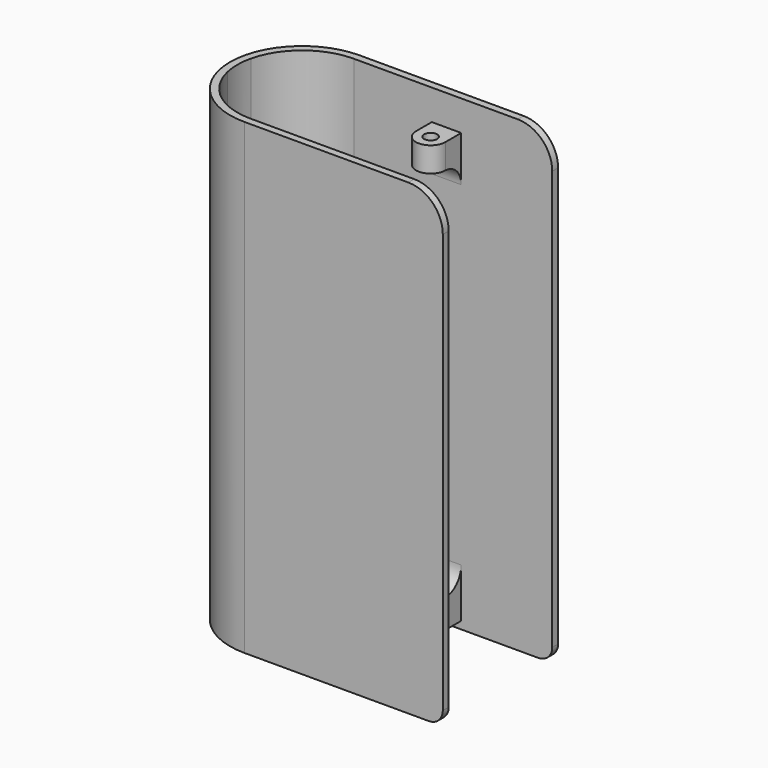
from build123d import *

# Parameters (mm, degrees)
F0_R      = 1.190625
F1_DEPTH  = 85.9282
F3_DEPTH  = 21.717
F2_R      = 11.8999
F2_W      = 5.4102
F2_H      = 23.7998
F4_DEPTH  = 5.588
F6_DEPTH  = 6.35
F7_W      = 3.6449
F7_H      = 1.397
F8_DEPTH  = 6.35
F9_R      = 11.8999
F10_DEPTH = 25.273
F12_DEPTH = 26.4922


with BuildPart() as f1:
    # F0 (on Top) → F1 (new body)
    with BuildSketch(Plane.XY):
        with BuildLine():
            Line((36.4617, 13.2461), (0, 13.2461))
            ThreePointArc((0, 13.2461), (-9.3664071343, 9.3664071343), (-13.2461, 0))
            ThreePointArc((-13.2461, 0), (-9.3664071343, -9.3664071343), (0, -13.2461))
            Line((0, -13.2461), (36.4617, -13.2461))
            Line((36.4617, -13.2461), (36.4617, -11.8999))
            Line((36.4617, -11.8999), (19.7358, -11.8999))
            Line((19.7358, -11.8999), (19.7358, -8.255))
            ThreePointArc((19.7358, -8.255), (17.0307, -5.5499), (14.3256, -8.255))
            Line((14.3256, -8.255), (14.3256, -11.8999))
            Line((14.3256, -11.8999), (0, -11.8999))
            ThreePointArc((0, -11.8999), (-7.3965262293, -9.3219643718), (-11.588358555, -2.7051))
            Line((-11.588358555, -2.7051), (-7.9883, -2.7051))
            ThreePointArc((-7.9883, -2.7051), (-6.8208667043, -2.2215332957), (-6.3373, -1.0541))
            Line((-6.3373, -1.0541), (-6.3373, 1.0541))
            ThreePointArc((-6.3373, 1.0541), (-6.8208667043, 2.2215332957), (-7.9883, 2.7051))
            Line((-7.9883, 2.7051), (-11.588358555, 2.7051))
            ThreePointArc((-11.588358555, 2.7051), (-7.3965262293, 9.3219643718), (0, 11.8999))
            Line((0, 11.8999), (14.3256, 11.8999))
            Line((14.3256, 11.8999), (14.3256, 8.255))
            ThreePointArc((14.3256, 8.255), (17.0307, 5.5499), (19.7358, 8.255))
            Line((19.7358, 8.255), (19.7358, 11.8999))
            Line((19.7358, 11.8999), (36.4617, 11.8999))
            Line((36.4617, 11.8999), (36.4617, 13.2461))
        make_face()
        with Locations((17.0307, -8.255)):
            Circle(F0_R, mode=Mode.SUBTRACT)
        with Locations((17.0307, 8.255)):
            Circle(F0_R, mode=Mode.SUBTRACT)
    extrude(amount=F1_DEPTH)

    # F2 (on face) → F3 (cut)
    with BuildSketch(Plane.XY.offset(85.9282)):
        with BuildLine():
            Line((-7.9883, 2.7051), (-11.588358555, 2.7051))
            ThreePointArc((-11.588358555, 2.7051), (-11.8999, 0), (-11.588358555, -2.7051))
            Line((-11.588358555, -2.7051), (-7.9883, -2.7051))
            ThreePointArc((-7.9883, -2.7051), (-6.8208667043, -2.2215332957), (-6.3373, -1.0541))
            Line((-6.3373, -1.0541), (-6.3373, 1.0541))
            ThreePointArc((-6.3373, 1.0541), (-6.8208667043, 2.2215332957), (-7.9883, 2.7051))
        make_face()
    extrude(amount=-F3_DEPTH, mode=Mode.SUBTRACT)

    # F2 (on face) → F4 (cut)
    with BuildSketch(Plane.XY.offset(85.9282)):
        Circle(F2_R)
        with Locations((17.0307, 0)):
            Rectangle(F2_W, F2_H)
    extrude(amount=-F4_DEPTH, mode=Mode.SUBTRACT)

    # F5 (on face) → F6 (cut)
    with BuildSketch(Plane.YZ.offset(19.7358)):
        with BuildLine():
            ThreePointArc((-8.255, 75.7646211525), (-10.8417294824, 74.593258728), (-11.8999, 71.9582))
            Line((-11.8999, 71.9582), (-11.8999, 10.414))
            ThreePointArc((-11.8999, 10.414), (-10.8417294824, 7.778941272), (-8.255, 6.6075788475))
            Line((-8.255, 6.6075788475), (-8.255, 75.7646211525))
        make_face()
        with BuildLine():
            ThreePointArc((-8.0899, 75.7682), (-8.1724693923, 75.767305183), (-8.255, 75.7646211525))
            Line((-8.255, 75.7646211525), (-8.255, 6.6075788475))
            ThreePointArc((-8.255, 6.6075788475), (-8.1724693923, 6.604894817), (-8.0899, 6.604))
            Line((-8.0899, 6.604), (-4.5909816399, 6.604))
            Line((-4.5909816399, 6.604), (-4.5909816399, 75.7682))
            Line((-4.5909816399, 75.7682), (-8.0899, 75.7682))
        make_face()
        with BuildLine():
            ThreePointArc((8.0899, 6.604), (10.7839768363, 7.7199231637), (11.8999, 10.414))
            Line((11.8999, 10.414), (11.8999, 71.9582))
            ThreePointArc((11.8999, 71.9582), (10.7839768363, 74.6522768363), (8.0899, 75.7682))
            Line((8.0899, 75.7682), (4.5909816399, 75.7682))
            Line((4.5909816399, 75.7682), (4.5909816399, 6.604))
            Line((4.5909816399, 6.604), (8.0899, 6.604))
        make_face()
    extrude(amount=-F6_DEPTH, mode=Mode.SUBTRACT)

    # F7 (on face) → F8 (cut)
    with BuildSketch(Plane.YZ.offset(19.7358)):
        Polygon((8.255, 0), (8.255, 1.397), (-11.8999, 1.397), (-11.8999, -1.397), (11.8999, -1.397), (11.8999, 0), align=None)
        with Locations((10.07745, 0.6985)):
            Rectangle(F7_W, F7_H)
    extrude(amount=-F8_DEPTH, mode=Mode.SUBTRACT)

    # F9 (on face) → F10 (cut)
    with BuildSketch(Plane(origin=(0, 0, 0), x_dir=(1, 0, 0), z_dir=(0, 0, -1))):
        Circle(F9_R)
    extrude(amount=-F10_DEPTH, mode=Mode.SUBTRACT)

    # F11 (on face) → F12 (cut, through all)
    with BuildSketch(Plane.XZ.offset(13.2461)):
        with BuildLine():
            ThreePointArc((30.1117, 85.9282), (34.6018280605, 84.0683280605), (36.4617, 79.5782))
            Line((36.4617, 79.5782), (36.4617, 85.9282))
            Line((36.4617, 85.9282), (30.1117, 85.9282))
        make_face()
        with BuildLine():
            ThreePointArc((36.4617, 2.54), (35.7177512242, 0.7439487758), (33.9217, 0))
            Line((33.9217, 0), (36.4617, 0))
            Line((36.4617, 0), (36.4617, 2.54))
        make_face()
    extrude(amount=-F12_DEPTH, mode=Mode.SUBTRACT)


solid = f1.part
